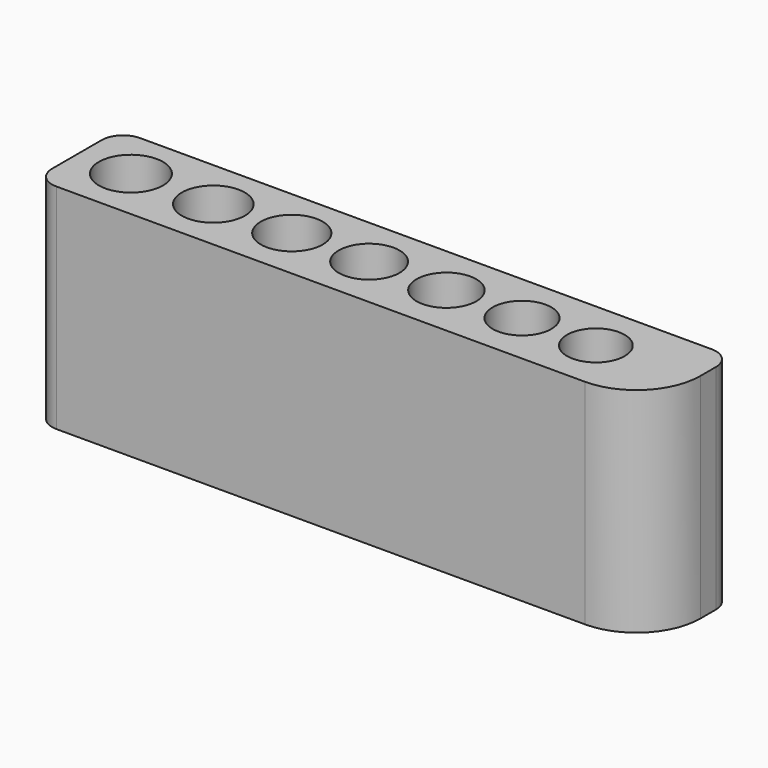
from build123d import *

# Parameters (mm, degrees)
F0_R     = 1.5
F0_R_2   = 1.475
F0_R_3   = 1.45
F0_R_4   = 1.425
F0_R_5   = 1.4
F0_R_6   = 1.375
F0_R_7   = 1.35
F1_DEPTH = 10


with BuildPart() as f1:
    # F0 (on Top) → F1 (new body)
    with BuildSketch(Plane.XY):
        with BuildLine():
            Line((25.263883, 2.41127), (-1.497099, 2.41127))
            ThreePointArc((-1.497099, 2.41127), (-2.204206, 2.118377), (-2.497099, 1.41127))
            Line((-2.497099, 1.41127), (-2.497099, -1.495804))
            ThreePointArc((-2.497099, -1.495804), (-2.204206, -2.202911), (-1.497099, -2.495804))
            Line((-1.497099, -2.495804), (23.263883, -2.495804))
            ThreePointArc((23.263883, -2.495804), (25.385203, -1.617124), (26.263883, 0.504196))
            Line((26.263883, 0.504196), (26.263883, 1.41127))
            ThreePointArc((26.263883, 1.41127), (25.97099, 2.118377), (25.263883, 2.41127))
        make_face()
        Circle(F0_R, mode=Mode.SUBTRACT)
        with Locations((3.857963, 0)):
            Circle(F0_R_2, mode=Mode.SUBTRACT)
        with Locations((7.531565, 0)):
            Circle(F0_R_3, mode=Mode.SUBTRACT)
        with Locations((11.151538, 0)):
            Circle(F0_R_4, mode=Mode.SUBTRACT)
        with Locations((14.771511, 0)):
            Circle(F0_R_5, mode=Mode.SUBTRACT)
        with Locations((18.311039, 0)):
            Circle(F0_R_6, mode=Mode.SUBTRACT)
        with Locations((21.770123, 0)):
            Circle(F0_R_7, mode=Mode.SUBTRACT)
    extrude(amount=F1_DEPTH)


solid = f1.part
